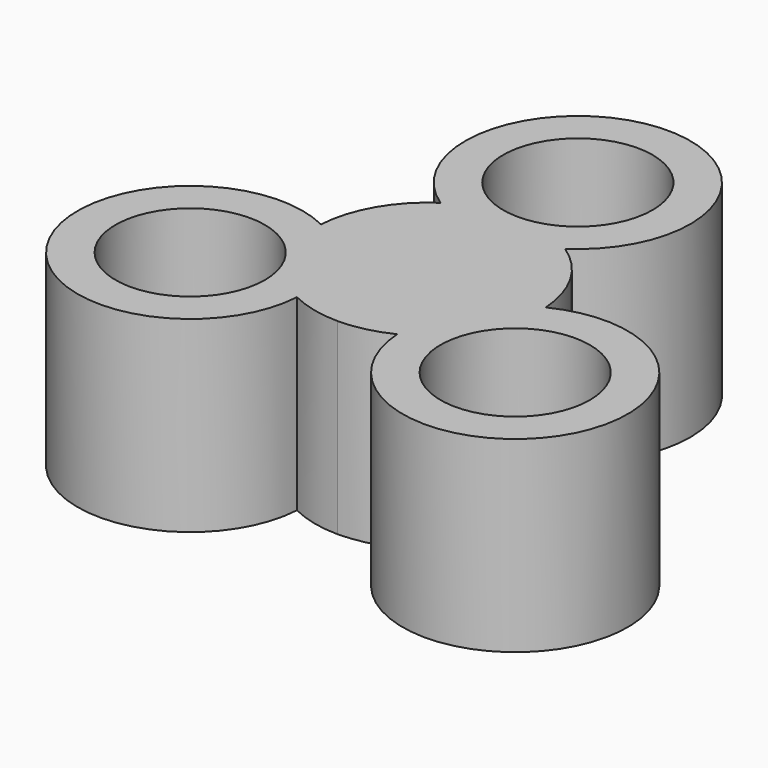
from build123d import *

# Parameters (mm, degrees)
F0_R     = 9.95
F1_DEPTH = 25


with BuildPart() as f1:
    # F0 (on Top) → F1 (new body)
    with BuildSketch(Plane.XY):
        with BuildLine():
            ThreePointArc((8.291562, 12.5), (0, 40), (-8.291562, 12.5))
            ThreePointArc((-8.291562, 12.5), (-10.930703, 10.272279), (-12.990381, 7.5))
            ThreePointArc((-12.990381, 7.5), (-14.361407, 4.330127), (-14.971099, 0.930703))
            ThreePointArc((-14.971099, 0.930703), (-34.641016, -20), (-6.679537, -13.430703))
            ThreePointArc((-6.679537, -13.430703), (-3.430703, -14.602406), (0, -15))
            ThreePointArc((0, -15), (3.430703, -14.602406), (6.679537, -13.430703))
            ThreePointArc((6.679537, -13.430703), (34.641016, -20), (14.971099, 0.930703))
            ThreePointArc((14.971099, 0.930703), (14.361407, 4.330127), (12.990381, 7.5))
            ThreePointArc((12.990381, 7.5), (10.930703, 10.272279), (8.291562, 12.5))
        make_face()
        with Locations((-21.650635, -12.5)):
            Circle(F0_R, mode=Mode.SUBTRACT)
        with Locations((21.650635, -12.5)):
            Circle(F0_R, mode=Mode.SUBTRACT)
        with Locations((0, 25)):
            Circle(F0_R, mode=Mode.SUBTRACT)
    extrude(amount=F1_DEPTH)


solid = f1.part
